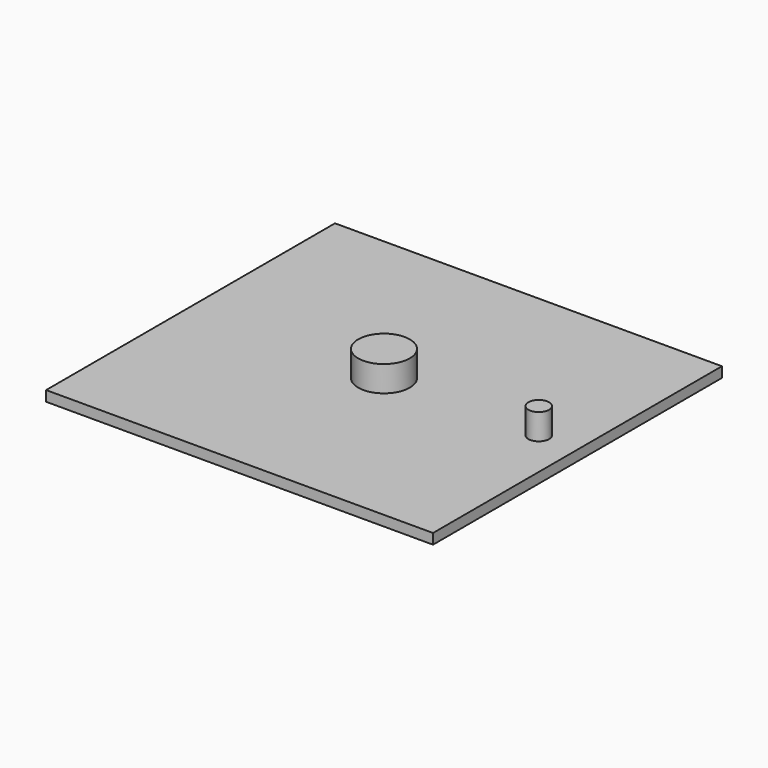
from build123d import *

# Parameters (mm, degrees)
F0_W     = 75
F0_H     = 70
F0_R     = 5
F0_R_2   = 2
F1_DEPTH = 2
F2_DEPTH = 7


with BuildPart() as f1:
    # F0 (on Top) → F1 (new body)
    with BuildSketch(Plane.XY):
        with Locations((4.717057, 0)):
            Rectangle(F0_W, F0_H)
        with Locations((4.717057, 0)):
            Circle(F0_R, mode=Mode.SUBTRACT)
        with Locations((34.717057, 0)):
            Circle(F0_R_2, mode=Mode.SUBTRACT)
    extrude(amount=F1_DEPTH)

    # F0 (on Top) → F2 (join)
    with BuildSketch(Plane.XY):
        with Locations((4.717057, 0)):
            Circle(F0_R)
        with Locations((34.717057, 0)):
            Circle(F0_R_2)
    extrude(amount=F2_DEPTH)


solid = f1.part
